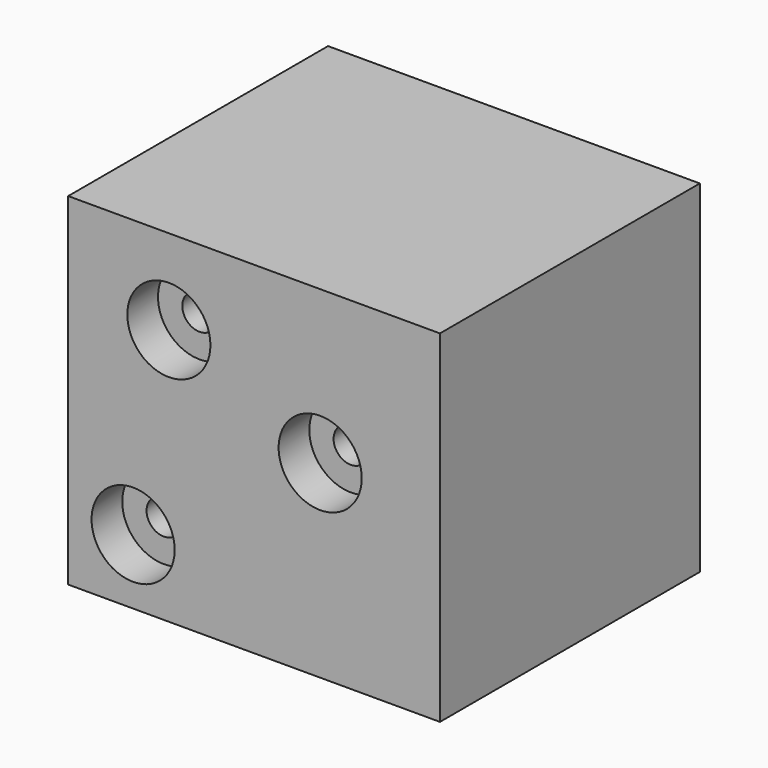
from build123d import *

# Parameters (mm, degrees)
F0_W           = 29.0734041482
F0_H           = 26.747526601
F1_DEPTH       = 25.4
F2_D           = 2.7
F2_DEPTH       = 14.2
F2_CBORE_D     = 6.5
F2_CBORE_DEPTH = 3
F2_TIP         = 0.8111618357


with BuildPart() as f1:
    # F0 (on Front) → F1 (new body)
    with BuildSketch(Plane.XZ):
        with Locations((-32.2133293375, 33.1436758861)):
            Rectangle(F0_W, F0_H)
    extrude(amount=-F1_DEPTH)

    # F2
    with Locations(Plane.XZ):
        with Locations((-27.0441826433, 34.5504842699), (-41.672680527, 24.8581562191), (-38.8773009181, 39.8606620729)):
            CounterBoreHole(F2_D / 2, F2_CBORE_D / 2, F2_CBORE_DEPTH, depth=F2_DEPTH)
            with Locations((0, 0, -(F2_DEPTH + F2_TIP / 2))):  # 118° drill point
                Cone(0, F2_D / 2, F2_TIP, mode=Mode.SUBTRACT)


solid = f1.part
